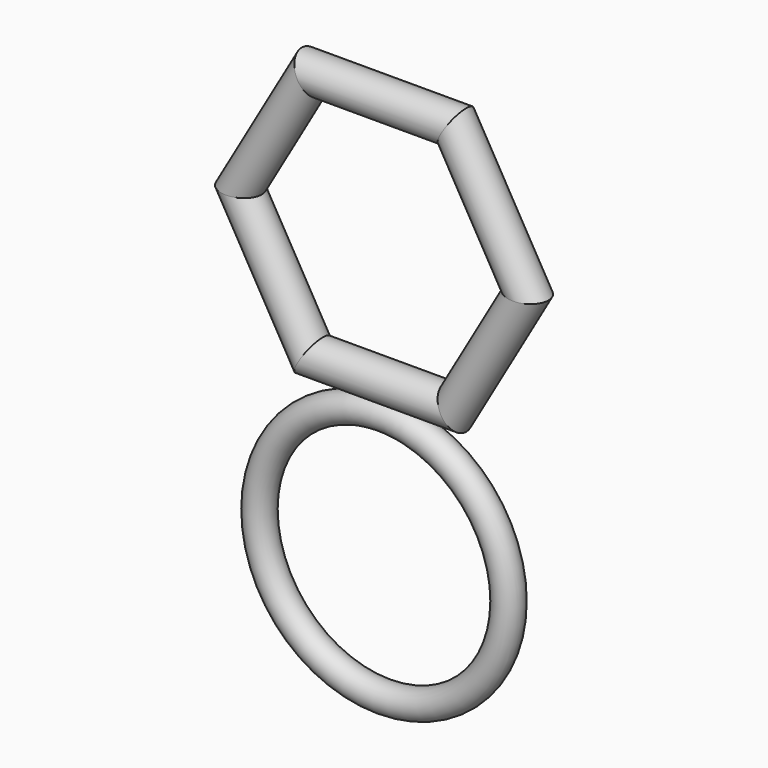
from build123d import *

# Parameters (mm, degrees)
F1_R = 2.1902863251
F4_R = 2.8180913068


with BuildPart() as f2:
    # F2: sweep along a path in F0
    with BuildLine(Plane.XZ) as f2_path:
        CenterArc((0, 0), 19.2595042625, 0, 360)
    # F1 (on Right) → F2 (sweep)
    with BuildSketch(Plane.YZ):
        with Locations((0, 19.164359197)):
            Circle(F1_R)
    sweep(path=f2_path.line)

    # F5: sweep along a path in F3
    with BuildLine(Plane.XZ) as f5_path:
        Line((-8.6774716492, 27.7112331241), (-17.3549432985, 42.7410549019))
        Line((-17.3549432985, 42.7410549019), (-8.6774716492, 57.7708766796))
        Line((-8.6774716492, 57.7708766796), (8.6774716492, 57.7708766796))
        Line((8.6774716492, 57.7708766796), (17.3549432985, 42.7410549019))
        Line((17.3549432985, 42.7410549019), (8.6774716492, 27.7112331241))
        Line((8.6774716492, 27.7112331241), (-8.6774716492, 27.7112331241))
    # F4 (on Right) → F5 (sweep)
    with BuildSketch(Plane.YZ):
        with Locations((0, 61.8414543569)):
            Circle(F4_R)
    sweep(path=f5_path.line, transition=Transition.RIGHT)


solid = f2.part
